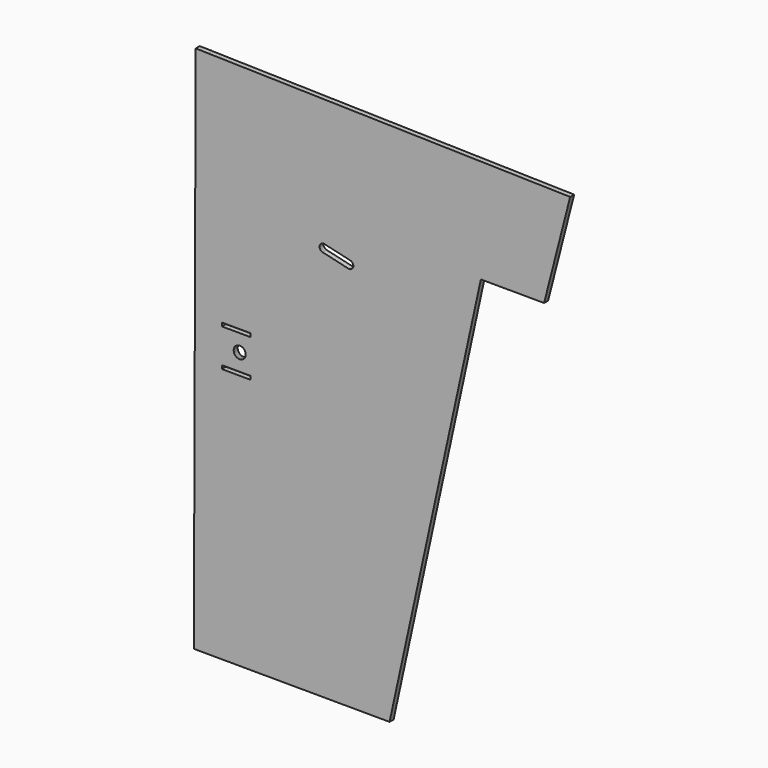
from build123d import *

# Parameters (mm, degrees)
F1_DEPTH = 5


with BuildPart() as f1:
    # F0 (on Front) → F1 (new body)
    with BuildSketch(Plane.XZ):
        Polygon((-179.034567, 264.374884), (-173.507781, 264.35558), (-186.03374, 264.537622), align=None)
        Polygon((-179.034567, 264.374884), (-186.03374, 264.537622), (-187.878187, -263.855378), (7.564755, -264.537596), (98.705213, 154.081378), (118.589349, 154.011986), (161.871482, 153.860881), (187.878187, 255.596949), align=None)
        Polygon((-131.338066, -8.954973), (-159.987894, -8.854973), (-159.975677, -5.35498), (-131.325849, -5.45498), align=None, mode=Mode.SUBTRACT)
        Polygon((-148.081213, 11.980342), (-147.984185, 12.727559), (-147.794243, 13.456717), (-147.514412, 14.156309), (-147.149134, 14.815337), (-146.704101, 15.423363), (-146.186398, 15.970834), (-145.604154, 16.449091), (-144.966563, 16.850589), (-144.283659, 17.169028), (-143.566261, 17.399381), (-142.825622, 17.537989), (-142.073478, 17.582667), (-141.321638, 17.532731), (-140.58199, 17.388967), (-139.866192, 17.153611), (-139.185548, 16.830421), (-138.550777, 16.424453), (-137.971886, 15.942158), (-137.458018, 15.391079), (-137.017252, 14.779955), (-136.656572, 14.118412), (-136.381642, 13.416864), (-136.196807, 12.686411), (-136.10496, 11.938533), (-136.107602, 11.185068), (-136.204655, 10.437851), (-136.394571, 9.708693), (-136.674403, 9.009101), (-137.039706, 8.350072), (-137.484714, 7.742047), (-138.002416, 7.194575), (-138.584661, 6.716319), (-139.222251, 6.314796), (-139.905156, 5.996356), (-140.622553, 5.766029), (-141.363192, 5.627421), (-142.115362, 5.582742), (-142.867177, 5.632679), (-143.606825, 5.776443), (-144.322622, 6.011774), (-145.003266, 6.334989), (-145.638037, 6.740931), (-146.216929, 7.223252), (-146.730822, 7.77433), (-147.171562, 8.385454), (-147.532268, 9.046997), (-147.807197, 9.74852), (-147.992033, 10.478999), (-148.083854, 11.226851), align=None, mode=Mode.SUBTRACT)
        Polygon((-131.20718, 28.544799), (-159.857008, 28.644799), (-159.844791, 32.144792), (-131.194962, 32.044767), align=None, mode=Mode.SUBTRACT)
        Polygon((-32.229146, 120.487084), (-33.26351, 120.520638), (-59.115122, 126.551944), (-60.096933, 126.879198), (-60.962007, 127.447269), (-61.652506, 128.218159), (-62.122279, 129.140331), (-62.339906, 130.152115), (-62.290808, 131.185869), (-61.978311, 132.172481), (-61.423296, 133.045987), (-60.662845, 133.747993), (-59.747861, 134.231558), (-58.739456, 134.464323), (-57.705066, 134.43077), (-31.853454, 128.399489), (-30.871643, 128.07221), (-30.006569, 127.504139), (-29.31607, 126.733249), (-28.846297, 125.811077), (-28.628696, 124.799293), (-28.677768, 123.765539), (-28.990265, 122.778926), (-29.545305, 121.90542), (-30.305731, 121.203415), (-31.22074, 120.719875), align=None, mode=Mode.SUBTRACT)
    extrude(amount=F1_DEPTH)


solid = f1.part
